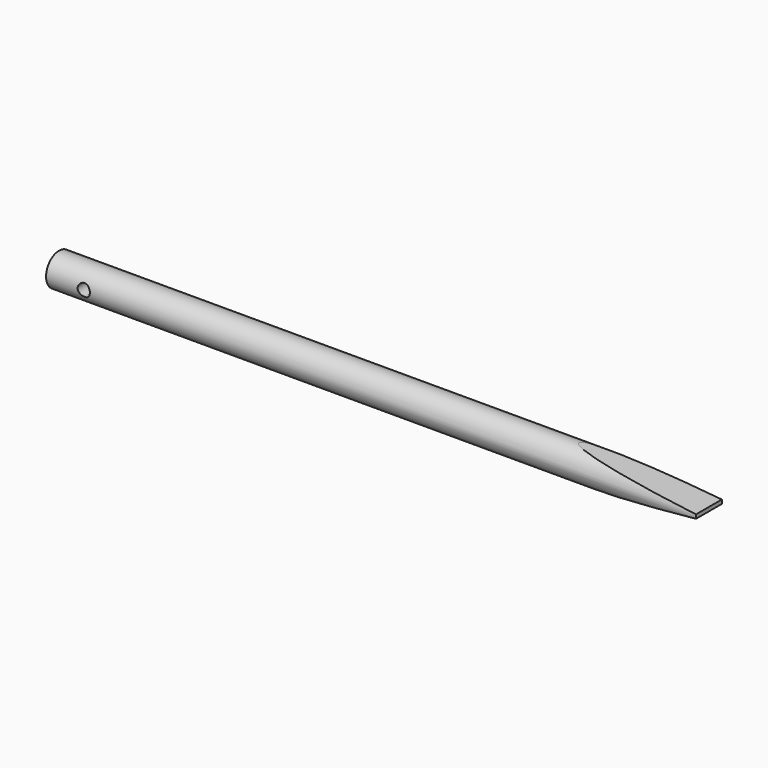
from build123d import *

# Parameters (mm, degrees)
F0_R     = 3.175
F1_DEPTH = 127
F4_DEPTH = 12.7
F2_R     = 1.1938
F5_DEPTH = 12.7


with BuildPart() as f1:
    # F0 (on Right) → F1 (new body)
    with BuildSketch(Plane.YZ):
        Circle(F0_R)
    extrude(amount=-F1_DEPTH)

    # F3 (on Front) → F4 (cut, symmetric)
    with BuildSketch(Plane.XZ):
        Polygon((0, -3.175), (0, -0.381), (-25.4, -3.175), align=None)
        Polygon((-25.4, 3.175), (0, 0.381), (0, 3.175), align=None)
    extrude(amount=F4_DEPTH, both=True, mode=Mode.SUBTRACT)

    # F2 (on Front) → F5 (cut, symmetric)
    with BuildSketch(Plane.XZ):
        with Locations((-119.634, 0)):
            Circle(F2_R)
    extrude(amount=F5_DEPTH, both=True, mode=Mode.SUBTRACT)


solid = f1.part
